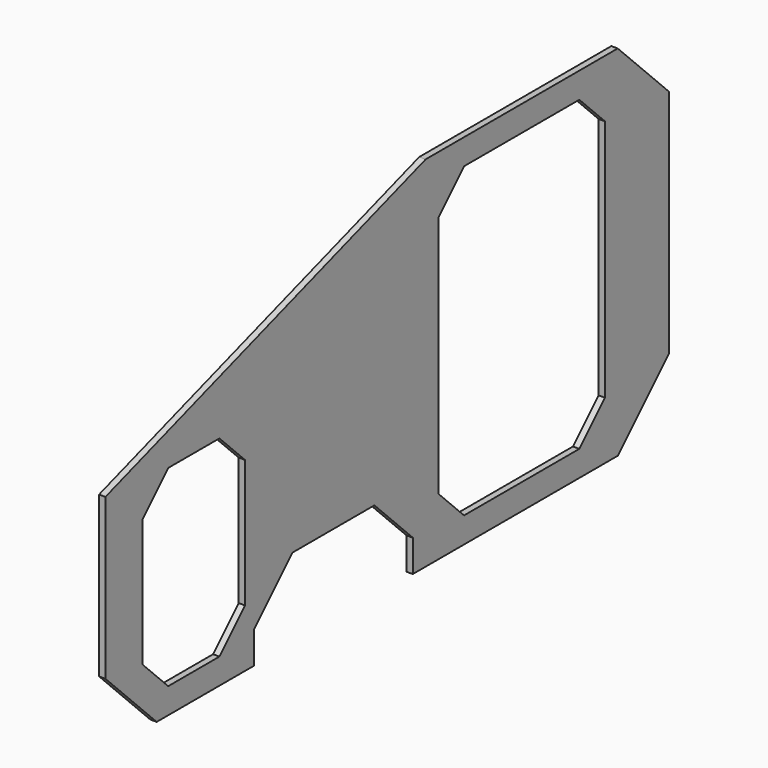
from build123d import *

# Parameters (mm, degrees)
PAD_DEPTH       = 20
POCKET_DEPTH    = 20
POCKET001_DEPTH = 20
POCKET002_DEPTH = 20


with BuildPart() as part:
    # Sketch → Pad (new body)
    with BuildSketch(Plane.YZ):
        Polygon((-2000, 200), (-2000, 700), (-750, 1120), (0, 1120), (200, 920), (200, 200), (0, 0), (-1800, 0), align=None)
    extrude(amount=PAD_DEPTH)

    # Sketch001 (on Face10 of Pad) → Pocket (cut)
    with BuildSketch(Plane.YZ.offset(20)):
        Polygon((-600, 1040), (-150, 1040), (-50, 940), (-50, 180), (-150, 80), (-600, 80), (-700, 180), (-700, 940), align=None)
    extrude(amount=-POCKET_DEPTH, mode=Mode.SUBTRACT)

    # Sketch002 (on Face5 of Pocket) → Pocket001 (cut)
    with BuildSketch(Plane.YZ.offset(20)):
        Polygon((-1270, 250), (-950, 250), (-800, 100), (-800, 0), (-1420, 0), (-1420, 100), align=None)
    extrude(amount=-POCKET001_DEPTH, mode=Mode.SUBTRACT)

    # Sketch003 (on Face5 of Pocket001) → Pocket002 (cut)
    with BuildSketch(Plane.YZ.offset(20)):
        Polygon((-1755, 80), (-1555, 80), (-1455, 180), (-1455, 580), (-1555, 680), (-1755, 680), (-1855, 580), (-1855, 180), align=None)
    extrude(amount=-POCKET002_DEPTH, mode=Mode.SUBTRACT)


solid = part.part
